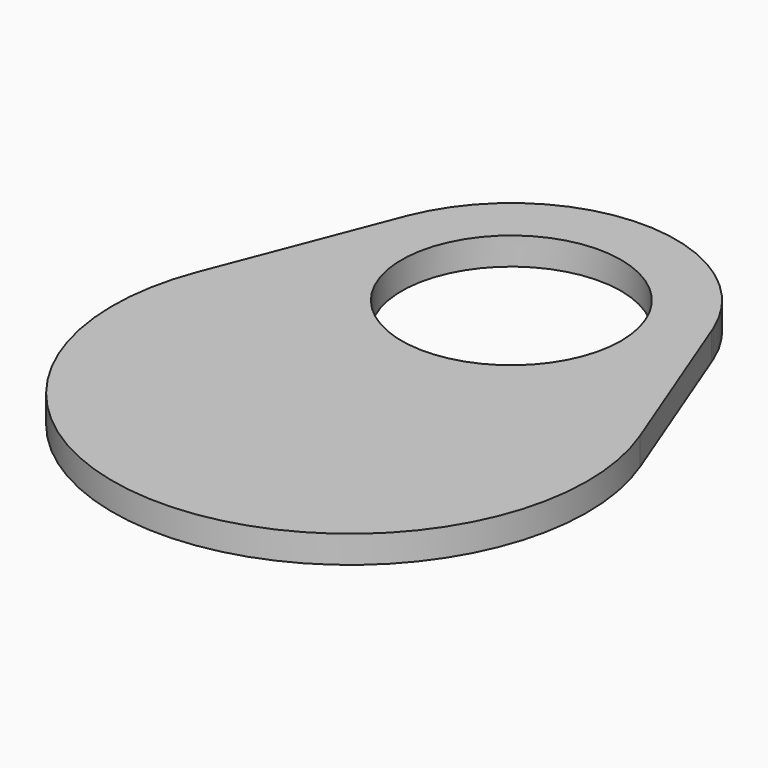
from build123d import *

# Parameters (mm, degrees)
F0_R     = 12.7
F1_DEPTH = 3.175


with BuildPart() as f1:
    # F0 (on Top) → F1 (new body)
    with BuildSketch(Plane.XY):
        with BuildLine():
            Line((25.619805, -13.394982), (17.851135, 6.651277))
            Line((17.851135, 6.651277), (17.671413, 7.115031))
            ThreePointArc((17.671413, 7.115031), (0, 19.05), (-17.671413, 7.115031))
            Line((-17.671413, 7.115031), (-17.851135, 6.651277))
            Line((-17.851135, 6.651277), (-25.619805, -13.394982))
            ThreePointArc((-25.619805, -13.394982), (0, -50.8), (25.619805, -13.394982))
        make_face()
        Circle(F0_R, mode=Mode.SUBTRACT)
    extrude(amount=F1_DEPTH)


solid = f1.part
